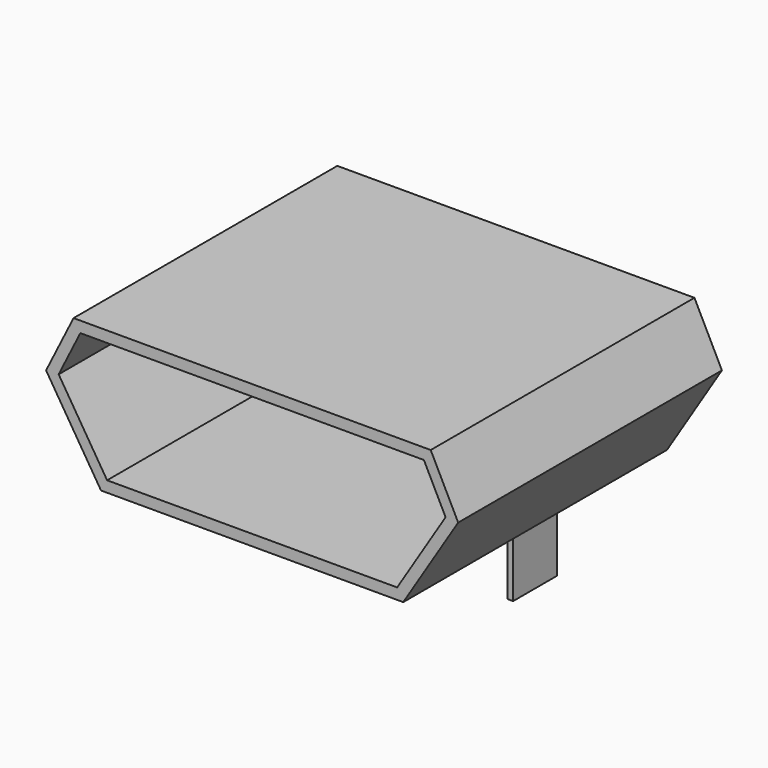
from build123d import *

# Parameters (mm, degrees)
PAD003_DEPTH         = 6
THICKNESS_T          = -0.2
SKETCH011_W          = 0.1
SKETCH011_H          = 1
PAD004_DEPTH         = 1
SKETCH012_W          = 0.5
SKETCH012_H          = 0.5
PAD005_DEPTH         = 0.4
SKETCH013_W          = 0.32
SKETCH013_H          = 1.35
PAD006_DEPTH         = 0.1
BODY_PLACEMENT_ANGLE = 90


with BuildPart() as part:
    # Sketch010 → Pad003 (new body)
    with BuildSketch(Plane.XY):
        Polygon((0, 0), (6.5, 0), (7, -1), (6, -2.6), (0.5, -2.6), (-0.5, -1), align=None)
    extrude(amount=PAD003_DEPTH)

    # Thickness
    thickness_openings = [part.faces().sort_by_distance(p)[0] for p in [
        (3.25, -1.25728, 6),
    ]]
    offset(amount=THICKNESS_T, openings=thickness_openings)

    # Sketch011 (on Face5 of Thickness) → Pad004 (join)
    with BuildSketch(Plane.XZ.offset(2.6)):
        with Locations((5.95, 3)):
            Rectangle(SKETCH011_W, SKETCH011_H)
        with Locations((0.55, 3)):
            Rectangle(SKETCH011_W, SKETCH011_H)
    extrude(amount=PAD004_DEPTH)

    # Sketch012 (on Face7 of Pad004) → Pad005 (join)
    with BuildSketch(Plane.XZ.offset(2.6)):
        with Locations((1.35, 0.25)):
            Rectangle(SKETCH012_W, SKETCH012_H)
        with Locations((5.15, 0.25)):
            Rectangle(SKETCH012_W, SKETCH012_H)
    extrude(amount=PAD005_DEPTH)

    # Sketch013 (on Face7 of Pad005) → Pad006 (join)
    with BuildSketch(Plane.XZ.offset(2.6)):
        with Locations((1.81, -0.025)):
            Rectangle(SKETCH013_W, SKETCH013_H)
        with Locations((2.53, -0.025)):
            Rectangle(SKETCH013_W, SKETCH013_H)
        with Locations((3.25, -0.025)):
            Rectangle(SKETCH013_W, SKETCH013_H)
        with Locations((3.97, -0.025)):
            Rectangle(SKETCH013_W, SKETCH013_H)
        with Locations((4.69, -0.025)):
            Rectangle(SKETCH013_W, SKETCH013_H)
    extrude(amount=PAD006_DEPTH)


with BuildPart() as part_1:
    # Body placement: moved
    add(part.part.moved(Location((-3, -44, 30))).rotate(Axis((-3, -44, 30), (1, 0, 0)), BODY_PLACEMENT_ANGLE))


solid = part_1.part
